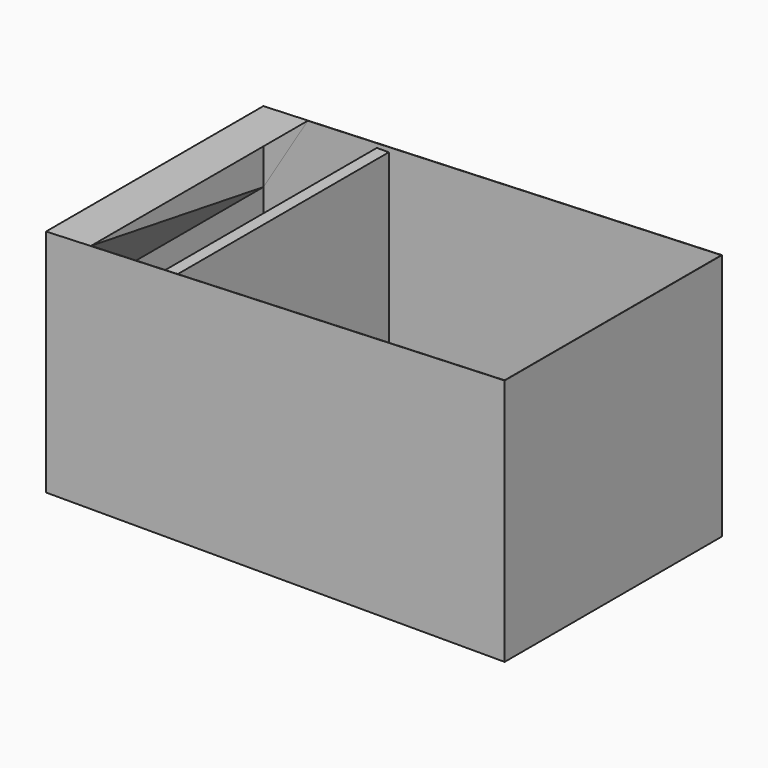
from build123d import *

# Parameters (mm, degrees)
F1_DEPTH = 2311.4
F2_T     = -2.54
F3_W     = 101.6
F3_H     = 2306.32
F4_DEPTH = 1955.8
F6_DEPTH = 2311.4


with BuildPart() as f1:
    # F0 (on Front) → F1 (new body)
    with BuildSketch(Plane.XZ):
        Polygon((1954.305796, 1030.002756), (-1948.068457, 877.602756), (-1948.068457, -1078.197244), (1954.305796, -1078.197244), align=None)
    extrude(amount=F1_DEPTH)

    # F2
    f2_openings = [f1.faces().sort_by_distance(p)[0] for p in [
        (3.11867, -1155.7, 953.802756),
    ]]
    offset(amount=F2_T, openings=f2_openings)

    # F3 (on face) → F4 (join)
    with BuildSketch(Plane.XY.offset(-1075.657244)):
        with Locations((-929.528457, -1155.7)):
            Rectangle(F3_W, F3_H)
    extrude(amount=F4_DEPTH)

    # F5 (on face) → F6 (join)
    with BuildSketch(Plane.XZ.offset(2311.4)):
        Polygon((-1948.068457, 877.602756), (-1948.068457, 268.834263), (-1567.894333, 892.449753), align=None)
    extrude(amount=-F6_DEPTH)


solid = f1.part
